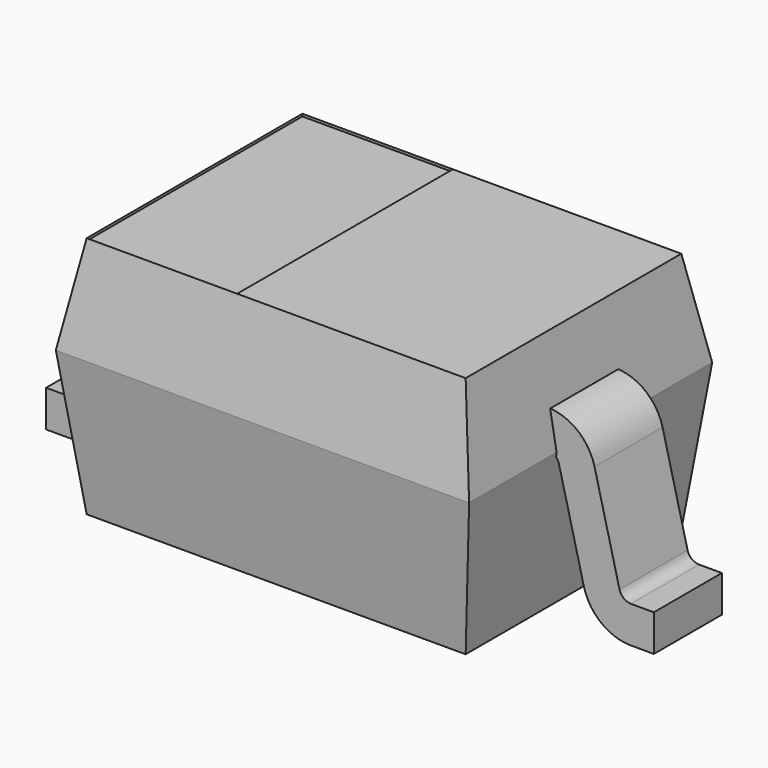
from build123d import *

# Parameters (mm, degrees)
F1_DEPTH      = 0.625
F3_DEPTH      = 0.851
F3_DEPTH_BACK = 0.851
F5_DEPTH      = 0.175
F6_W          = 0.6190498838
F6_H          = 1.1089384154
F7_DEPTH      = 0.01


with BuildPart() as f1:
    # F0 (on Front) → F1 (new body, symmetric)
    with BuildSketch(Plane.XZ):
        Polygon((-0.7794692077, 0.4), (-0.85, 0), (0, 0), (0, 0.4), align=None)
        Polygon((0, 0), (-0.85, 0), (-0.7794692077, -0.6), (0, -0.6), align=None)
        Polygon((0, 0.4), (0, 0), (0.85, 0), (0.7794692077, 0.4), align=None)
        Polygon((0.85, 0), (0, 0), (0, -0.6), (0.7794692077, -0.6), align=None)
    extrude(amount=F1_DEPTH, both=True)

    # F2 (on Right) → F3 (cut, two sides)
    with BuildSketch(Plane.YZ) as f3_sk:
        Polygon((-0.625, 0.4), (-0.625, 0), (-0.5544692077, 0.4), align=None)
        Polygon((-0.5544692077, -0.6), (-0.625, 0), (-0.625, -0.6), align=None)
        Polygon((0.5544692077, -0.6), (0.625, -0.6), (0.625, 0), align=None)
        Polygon((0.5544692077, 0.4), (0.625, 0), (0.625, 0.4), align=None)
    extrude(amount=-F3_DEPTH, mode=Mode.SUBTRACT)
    extrude(f3_sk.sketch, amount=F3_DEPTH_BACK, mode=Mode.SUBTRACT)

    # F6 (on face) → F7 (cut)
    with BuildSketch(Plane.XY.offset(0.4)):
        with Locations((-0.4699442658, 0)):
            Rectangle(F6_W, F6_H)
    extrude(amount=-F7_DEPTH, mode=Mode.SUBTRACT)


with BuildPart() as f5:
    # F4 (on Front) → F5 (new body, symmetric)
    with BuildSketch(Plane.XZ):
        with BuildLine():
            Line((1.1561552813, -0.6), (1.25, -0.6))
            Line((1.25, -0.6), (1.25, -0.4489999779))
            Line((1.25, -0.4489999779), (1.1561552813, -0.4489999779))
            ThreePointArc((1.1561552813, -0.4489999779), (1.1260000966, -0.438622049), (1.1086183202, -0.4118842403))
            Line((1.1086183202, -0.4118842403), (1.0059598437, -0.001250334))
            ThreePointArc((1.0059598437, -0.001250334), (0.9346590474, 0.1084293105), (0.8109611797, 0.1510000221))
            Line((0.8109611797, 0.1510000221), (0.7142239483, 0.1510000221))
            Line((0.7142239483, 0.1510000221), (0.7142239483, 0))
            Line((0.7142239483, 0), (0.8109611797, 0))
            ThreePointArc((0.8109611797, 0), (0.8417317901, -0.0105897281), (0.8594683047, -0.0378732187))
            Line((0.8594683047, -0.0378732187), (0.9621267813, -0.448507125))
            ThreePointArc((0.9621267813, -0.448507125), (1.0330728394, -0.5576410876), (1.1561552813, -0.6))
        make_face()
    extrude(amount=F5_DEPTH, both=True)


with BuildPart() as f5b:
    # F4 (on Front) → F5, piece 2 (new body, symmetric)
    with BuildSketch(Plane.XZ):
        with BuildLine():
            Line((-1.25, -0.4489999779), (-1.25, -0.6))
            Line((-1.25, -0.6), (-1.1561552813, -0.6))
            ThreePointArc((-1.1561552813, -0.6), (-1.0330728394, -0.5576410876), (-0.9621267813, -0.448507125))
            Line((-0.9621267813, -0.448507125), (-0.8594683047, -0.0378732187))
            ThreePointArc((-0.8594683047, -0.0378732187), (-0.8417317901, -0.0105897281), (-0.8109611797, 0))
            Line((-0.8109611797, 0), (-0.7142239483, 0))
            Line((-0.7142239483, 0), (-0.7142239483, 0.1510000221))
            Line((-0.7142239483, 0.1510000221), (-0.8109611797, 0.1510000221))
            ThreePointArc((-0.8109611797, 0.1510000221), (-0.9346590474, 0.1084293105), (-1.0059598437, -0.001250334))
            Line((-1.0059598437, -0.001250334), (-1.1086183202, -0.4118842403))
            ThreePointArc((-1.1086183202, -0.4118842403), (-1.1260000966, -0.438622049), (-1.1561552813, -0.4489999779))
            Line((-1.1561552813, -0.4489999779), (-1.25, -0.4489999779))
        make_face()
    extrude(amount=F5_DEPTH, both=True)


solid = Compound([f1.part, f5.part, f5b.part])
